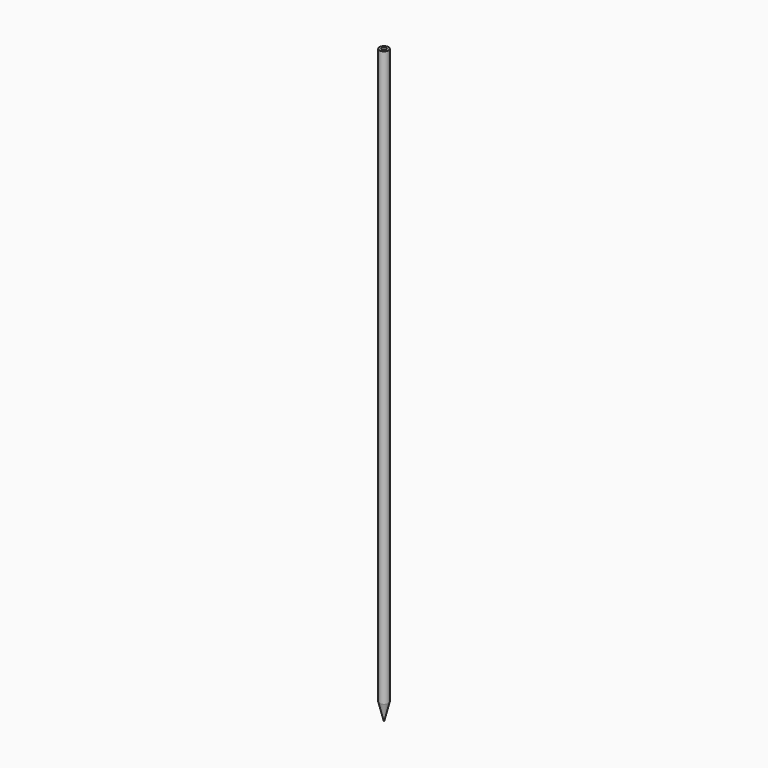
from build123d import *

# Parameters (mm, degrees)
F0_R     = 20
F0_R_2   = 10
F1_DEPTH = 2540


with BuildPart() as f1:
    # F0 (on Top) → F1 (new body)
    with BuildSketch(Plane.XY):
        Circle(F0_R)
        Circle(F0_R_2, mode=Mode.SUBTRACT)
    extrude(amount=F1_DEPTH)

    # F3 (on Right) → F4 (revolve)
    with BuildSketch(Plane.YZ):
        Polygon((20, 0), (0, 0), (0, -78.93643), align=None)
    revolve(axis=Axis((0, 0, -39.468215), (0, 0, -1)))


solid = f1.part
